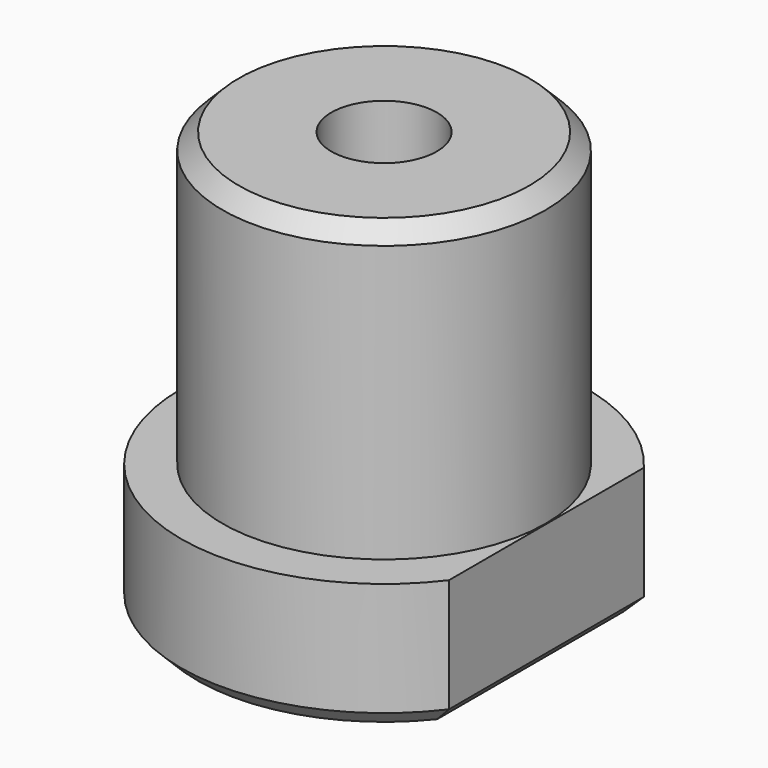
from build123d import *

# Parameters (mm, degrees)
SKETCH_R        = 12.5
PAD_DEPTH       = 8
SKETCH001_R     = 9.95
PAD001_DEPTH    = 18
SKETCH002_R     = 3.25
POCKET_DEPTH    = 26.001
SKETCH003_W     = 6.7
SKETCH003_H     = 6.7
POCKET001_DEPTH = 9
SKETCH004_R     = 8
POCKET002_DEPTH = 2
CHAMFER_SIZE    = 1
CHAMFER001_SIZE = 1


with BuildPart() as part:
    # Sketch → Pad (new body)
    with BuildSketch(Plane.XY):
        Circle(SKETCH_R)
    extrude(amount=PAD_DEPTH)

    # Sketch001 (on Face3 of Pad) → Pad001 (join)
    with BuildSketch(Plane.XY.offset(8)):
        Circle(SKETCH001_R)
    extrude(amount=PAD001_DEPTH)

    # Sketch002 (on Face2 of Pad001) → Pocket (cut, through all)
    with BuildSketch(Plane(origin=(0, 0, 0), x_dir=(1, 0, 0), z_dir=(0, 0, -1))):
        Circle(SKETCH002_R)
        with BuildLine():
            Line((10, 7.5), (10, -7.5))
            ThreePointArc((10, -7.5), (12.5, 0), (10, 7.5))
        make_face()
    extrude(amount=-POCKET_DEPTH, mode=Mode.SUBTRACT)

    # Sketch003 (on Face2 of Pocket) → Pocket001 (cut)
    with BuildSketch(Plane(origin=(0, 0, 0), x_dir=(1, 0, 0), z_dir=(0, 0, -1))):
        Rectangle(SKETCH003_W, SKETCH003_H)
    extrude(amount=-POCKET001_DEPTH, mode=Mode.SUBTRACT)

    # Sketch004 → Pocket002 (cut)
    with BuildSketch(Plane(origin=(0, 0, 0), x_dir=(1, 0, 0), z_dir=(0, 0, -1))):
        Circle(SKETCH004_R)
    extrude(amount=-POCKET002_DEPTH, mode=Mode.SUBTRACT)

    # Chamfer
    chamfer_edges = [part.edges().sort_by_distance(p)[0] for p in [
        (-12.5, 0, 0),
        (10, 0, 0),
    ]]
    chamfer(chamfer_edges, length=CHAMFER_SIZE)

    # Chamfer001
    chamfer001_edges = [part.edges().sort_by_distance(p)[0] for p in [
        (-9.95, 0, 26),
    ]]
    chamfer(chamfer001_edges, length=CHAMFER001_SIZE)


solid = part.part
